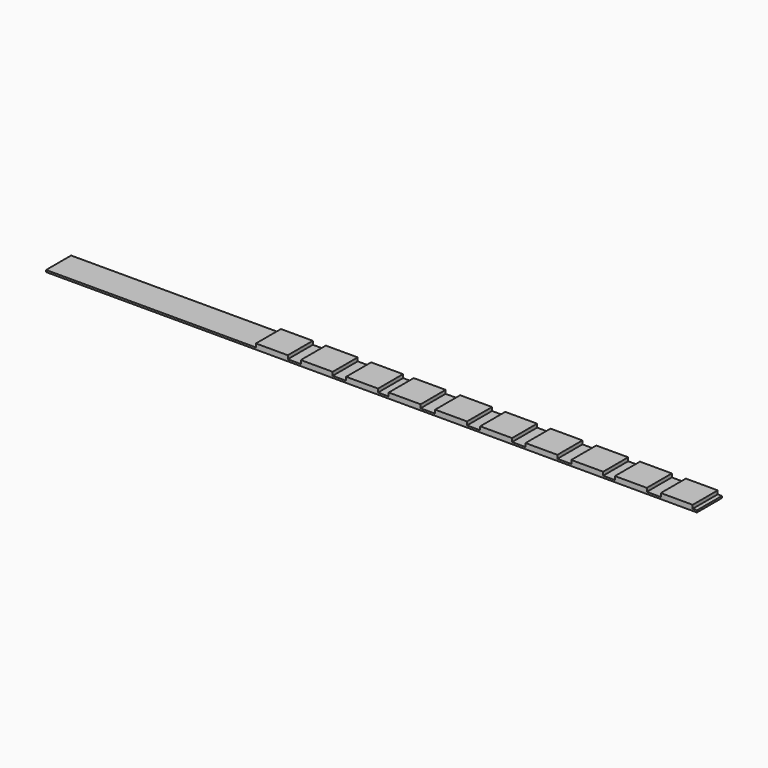
from build123d import *

# Parameters (mm, degrees)
F1_DEPTH = 5.1943


with BuildPart() as f1:
    # F0 (on Front) → F1 (new body)
    with BuildSketch(Plane.XZ):
        Polygon((0, 0.3175), (0, 0), (108.0897, 0), (108.0897, 0.3175), (107.3912, 0.3175), (107.3912, 0.9017), (102.0953, 0.9017), (102.0953, 0.3175), (99.7712, 0.3175), (99.7712, 0.9017), (94.4753, 0.9017), (94.4753, 0.3175), (92.5195, 0.3175), (92.5195, 0.9017), (87.2236, 0.9017), (87.2236, 0.3175), (84.9249, 0.3175), (84.9249, 0.9017), (79.629, 0.9017), (79.629, 0.3175), (77.3938, 0.3175), (77.3938, 0.9017), (72.0979, 0.9017), (72.0979, 0.3175), (69.9135, 0.3175), (69.9135, 0.9017), (64.6176, 0.9017), (64.6176, 0.3175), (62.2046, 0.3175), (62.2046, 0.9017), (56.9087, 0.9017), (56.9087, 0.3175), (55.1307, 0.3175), (55.1307, 0.9017), (49.8348, 0.9017), (49.8348, 0.3175), (47.5996, 0.3175), (47.5996, 0.9017), (42.3037, 0.9017), (42.3037, 0.3175), (40.1447, 0.3175), (40.1447, 0.9017), (34.8488, 0.9017), (34.8488, 0.3175), align=None)
    extrude(amount=F1_DEPTH)


solid = f1.part
